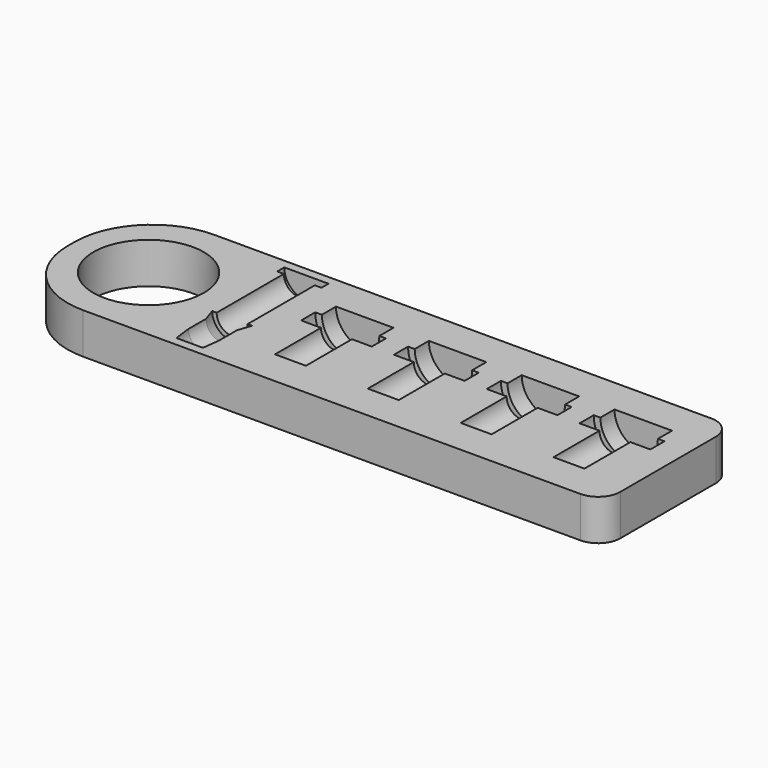
from build123d import *

# Parameters (mm, degrees)
F0_R     = 12.5
F1_DEPTH = 9.25


with BuildPart() as f1:
    # F0 (on Top) → F1 (new body)
    with BuildSketch(Plane.XY):
        with BuildLine():
            ThreePointArc((0, 17.5), (5.125631, 5.125631), (17.5, 0))
            Line((17.5, 0), (130, 0))
            ThreePointArc((130, 0), (133.535534, 1.464466), (135, 5))
            Line((135, 5), (135, 32))
            ThreePointArc((135, 32), (133.535534, 35.535534), (130, 37))
            Line((130, 37), (17.5, 37))
            ThreePointArc((17.5, 37), (5.125631, 31.874369), (0, 19.5))
            Line((0, 19.5), (0, 17.5))
        make_face()
        with Locations((17.5, 18.5)):
            Circle(F0_R, mode=Mode.SUBTRACT)
    extrude(amount=F1_DEPTH)

    # F2 (on face) → F3 (revolve, cut)
    with BuildSketch(Plane.XY.offset(9.25)):
        Polygon((45, 35), (40, 35), (40, 33), (40, 13), (40, 2), (43, 2), (43.5, 6), (43.5, 11), (44.5, 14), (43.5, 14), (43.5, 33), (45, 33), align=None)
    revolve(axis=Axis((40, 23, 9.25), (0, -1, 0)), mode=Mode.SUBTRACT)

    # F2 (on face) → F4 (revolve, cut)
    with BuildSketch(Plane.XY.offset(9.25)):
        Polygon((64.5, 29), (58, 29), (58, 25), (58, 21), (58, 8), (61.5, 8), (61.5, 21), (66, 21), (66, 25), (64.5, 25), align=None)
    revolve(axis=Axis((58, 14.5, 9.25), (0, -1, 0)), mode=Mode.SUBTRACT)

    # F2 (on face) → F5 (revolve, cut)
    with BuildSketch(Plane.XY.offset(9.25)):
        Polygon((85.5, 29), (79, 29), (79, 25), (79, 21), (79, 8), (82.5, 8), (82.5, 21), (87, 21), (87, 25), (85.5, 25), align=None)
    revolve(axis=Axis((79, 14.5, 9.25), (0, -1, 0)), mode=Mode.SUBTRACT)

    # F2 (on face) → F6 (revolve, cut)
    with BuildSketch(Plane.XY.offset(9.25)):
        Polygon((106.5, 29), (100, 29), (100, 25), (100, 21), (100, 8), (103.5, 8), (103.5, 21), (108, 21), (108, 25), (106.5, 25), align=None)
    revolve(axis=Axis((100, 14.5, 9.25), (0, -1, 0)), mode=Mode.SUBTRACT)

    # F2 (on face) → F7 (revolve, cut)
    with BuildSketch(Plane.XY.offset(9.25)):
        Polygon((127.5, 29), (121, 29), (121, 25), (121, 21), (121, 8), (124.5, 8), (124.5, 21), (129, 21), (129, 25), (127.5, 25), align=None)
    revolve(axis=Axis((121, 14.5, 9.25), (0, -1, 0)), mode=Mode.SUBTRACT)


solid = f1.part
